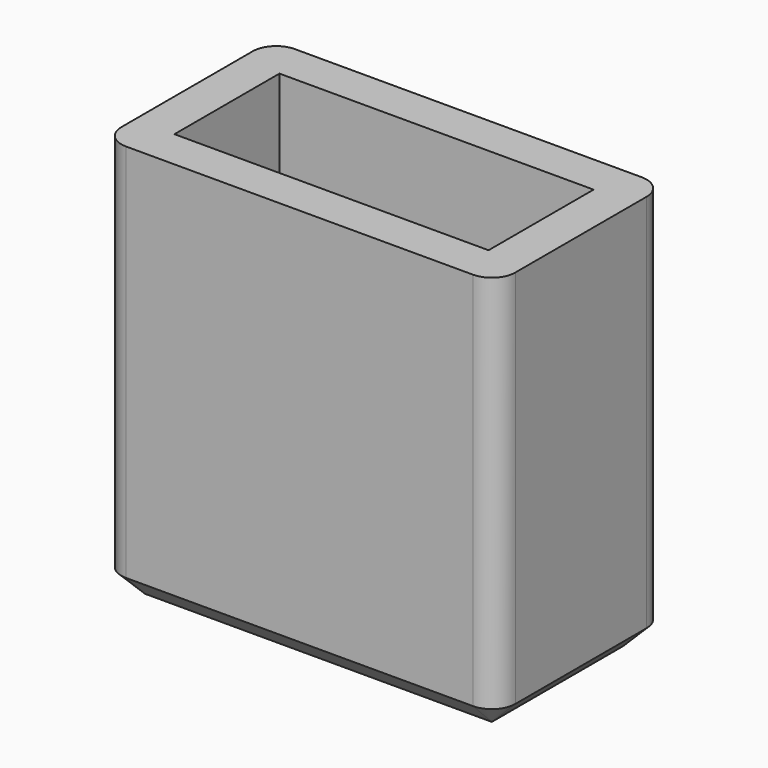
from build123d import *

# Parameters (mm, degrees)
F0_W     = 16.8
F0_H     = 9
F0_W_2   = 13.4
F0_H_2   = 5.6
F1_DEPTH = 15.2
F2_DEPTH = 2
F3_R     = 1
F4_SIZE  = 1


with BuildPart() as f1:
    # F0 (on Top) → F1 (new body)
    with BuildSketch(Plane.XY):
        Rectangle(F0_W, F0_H)
        Rectangle(F0_W_2, F0_H_2, mode=Mode.SUBTRACT)
    extrude(amount=F1_DEPTH)

    # F0 (on Top) → F2 (join)
    with BuildSketch(Plane.XY):
        Rectangle(F0_W, F0_H)
        Rectangle(F0_W_2, F0_H_2, mode=Mode.SUBTRACT)
        Rectangle(F0_W_2, F0_H_2)
    extrude(amount=-F2_DEPTH)

    # F3
    f3_edges = [f1.edges().sort_by_distance(p)[0] for p in [
        (-8.4, 4.5, 6.6),
        (-8.4, -4.5, 6.6),
        (8.4, -4.5, 6.6),
        (8.4, 4.5, 6.6),
    ]]
    fillet(f3_edges, radius=F3_R)

    # F4
    f4_edges = [f1.edges().sort_by_distance(p)[0] for p in [
        (0, -4.5, -2),
        (-8.107107, -4.207107, -2),
        (8.107107, -4.207107, -2),
        (-8.4, 0, -2),
        (8.4, 0, -2),
        (-8.107107, 4.207107, -2),
        (8.107107, 4.207107, -2),
        (0, 4.5, -2),
    ]]
    chamfer(f4_edges, length=F4_SIZE)


solid = f1.part
